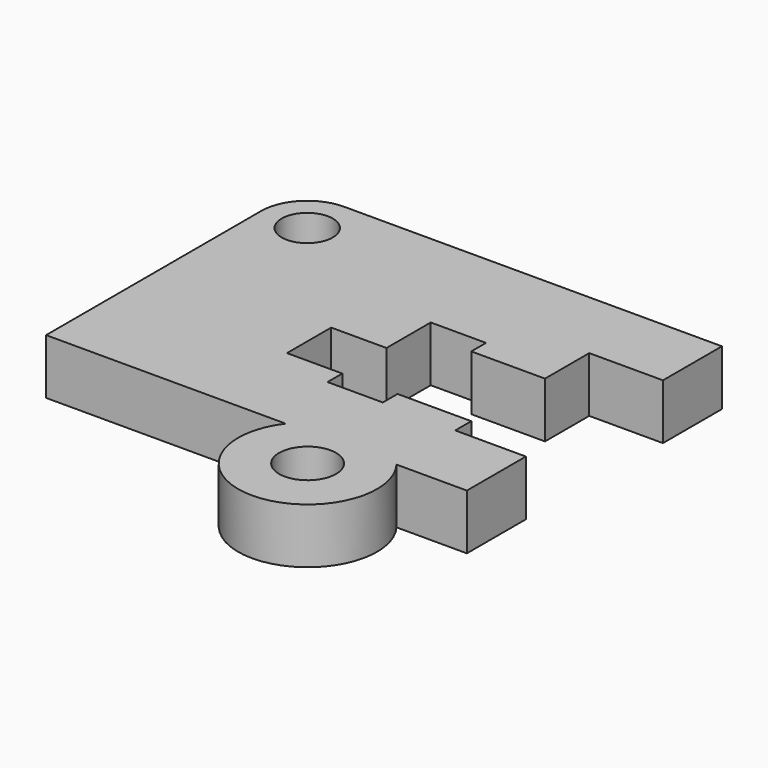
from build123d import *

# Parameters (mm, degrees)
F0_R     = 3.929234
F0_R_2   = 3.528575
F1_DEPTH = 7.62


with BuildPart() as f1:
    # F0 (on Top) → F1 (new body)
    with BuildSketch(Plane.XY):
        with BuildLine():
            Line((0.427139, 33.241566), (-51.642861, 33.241566))
            ThreePointArc((-51.642861, 33.241566), (-56.132989, 31.381694), (-57.992861, 26.891566))
            Line((-57.992861, 26.891566), (-57.992861, -10.16))
            Line((-57.992861, -10.16), (-24.972861, -10.16))
            ThreePointArc((-24.972861, -10.16), (-17.335705, -25.499214), (-9.69855, -10.16))
            Line((-9.69855, -10.16), (0, -10.16))
            Line((0, -10.16), (0, 0))
            Line((0, 0), (-9.732861, 0))
            Line((-9.732861, 0), (-9.732861, 2.761566))
            Line((-9.732861, 2.761566), (-19.892861, 2.761566))
            Line((-19.892861, 2.761566), (-19.892861, 0.221566))
            Line((-19.892861, 0.221566), (-27.512861, 0.221566))
            Line((-27.512861, 0.221566), (-27.512861, 2.761566))
            Line((-27.512861, 2.761566), (-35.132861, 2.761566))
            Line((-35.132861, 2.761566), (-35.132861, 10.381566))
            Line((-35.132861, 10.381566), (-27.512861, 10.381566))
            Line((-27.512861, 10.381566), (-27.512861, 18.001566))
            Line((-27.512861, 18.001566), (-19.892861, 18.001566))
            Line((-19.892861, 18.001566), (-19.892861, 15.461566))
            Line((-19.892861, 15.461566), (-9.732861, 15.461566))
            Line((-9.732861, 15.461566), (-9.732861, 23.081566))
            Line((-9.732861, 23.081566), (0.427139, 23.081566))
            Line((0.427139, 23.081566), (0.427139, 33.241566))
        make_face()
        with Locations((-17.335705, -15.928397)):
            Circle(F0_R, mode=Mode.SUBTRACT)
        with Locations((-51.642861, 26.891566)):
            Circle(F0_R_2, mode=Mode.SUBTRACT)
    extrude(amount=F1_DEPTH)


solid = f1.part
